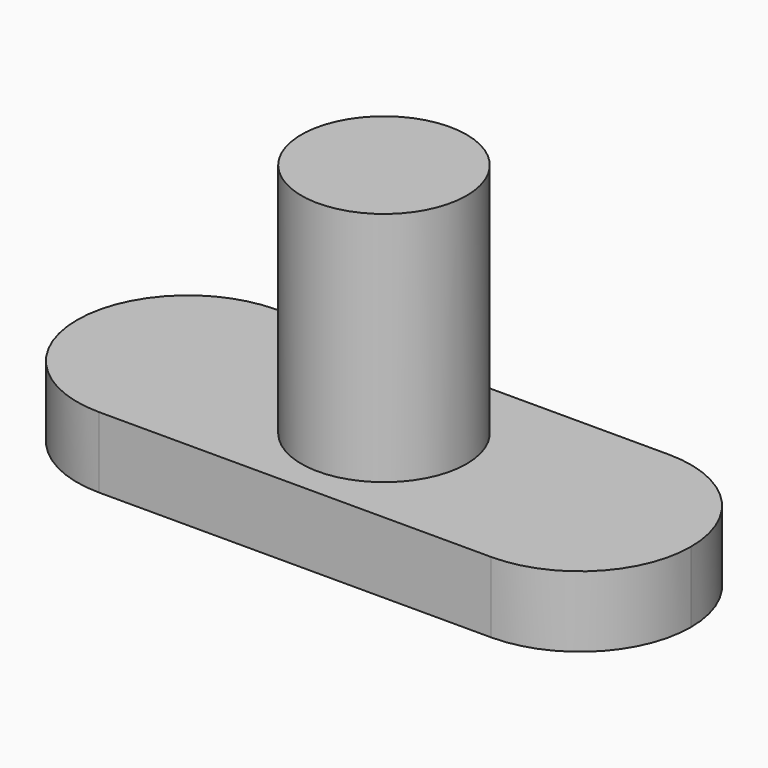
from build123d import *

# Parameters (mm, degrees)
F1_DEPTH = 1.5
F2_R     = 1.75
F3_DEPTH = 5
F4_W     = 2.7
F4_H     = 2.7
F5_DEPTH = 1


with BuildPart() as f1:
    # F0 (on Top) → F1 (new body)
    with BuildSketch(Plane.XY):
        with BuildLine():
            Line((-0.651671, -4.7), (-0.651671, 0))
            ThreePointArc((-0.651671, 0), (-3.001671, -2.35), (-0.651671, -4.7))
        make_face()
        with BuildLine():
            ThreePointArc((1.698329, -2.35), (1.01003, -0.688299), (-0.651671, 0))
            Line((-0.651671, 0), (-0.651671, -4.7))
            ThreePointArc((-0.651671, -4.7), (1.01003, -4.011701), (1.698329, -2.35))
        make_face()
        with BuildLine():
            Line((7.648329, 0), (-0.651671, 0))
            ThreePointArc((-0.651671, 0), (1.01003, -0.688299), (1.698329, -2.35))
            ThreePointArc((1.698329, -2.35), (1.01003, -4.011701), (-0.651671, -4.7))
            Line((-0.651671, -4.7), (7.648329, -4.7))
            ThreePointArc((7.648329, -4.7), (5.298329, -2.35), (7.648329, 0))
        make_face()
        with BuildLine():
            ThreePointArc((9.998329, -2.35), (9.31003, -0.688299), (7.648329, 0))
            Line((7.648329, 0), (7.648329, -4.7))
            ThreePointArc((7.648329, -4.7), (9.31003, -4.011701), (9.998329, -2.35))
        make_face()
        with BuildLine():
            Line((7.648329, -4.7), (7.648329, 0))
            ThreePointArc((7.648329, 0), (5.298329, -2.35), (7.648329, -4.7))
        make_face()
    extrude(amount=F1_DEPTH)

    # F2 (on face) → F3 (join)
    with BuildSketch(Plane.XY.offset(1.5)):
        with Locations((3.498329, -2.35)):
            Circle(F2_R)
    extrude(amount=F3_DEPTH)

    # F4 (on face) → F5 (cut)
    with BuildSketch(Plane(origin=(0, 0, 0), x_dir=(1, 0, 0), z_dir=(0, 0, -1))):
        with Locations((3.498329, 2.35)):
            Rectangle(F4_W, F4_H)
    extrude(amount=-F5_DEPTH, mode=Mode.SUBTRACT)


solid = f1.part
